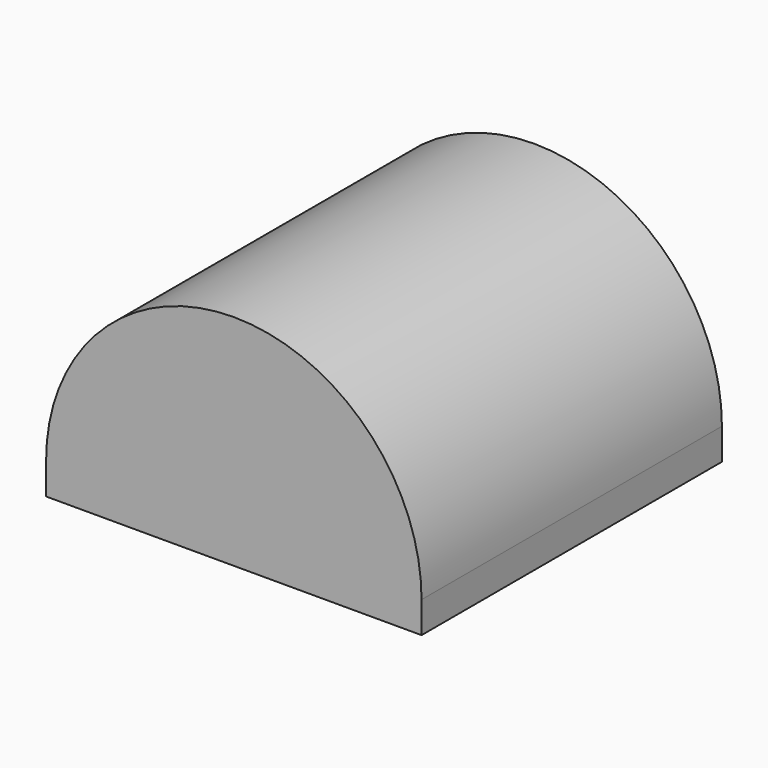
from build123d import *

# Parameters (mm, degrees)
F1_DEPTH = 76.2


with BuildPart() as f1:
    # F0 (on Front) → F1 (new body, symmetric)
    with BuildSketch(Plane.XZ):
        with BuildLine():
            Line((-76.2, 0), (76.2, 0))
            Line((76.2, 0), (76.2, 12.7))
            ThreePointArc((76.2, 12.7), (0, 88.9), (-76.2, 12.7))
            Line((-76.2, 12.7), (-76.2, 0))
        make_face()
    extrude(amount=F1_DEPTH, both=True)


solid = f1.part
